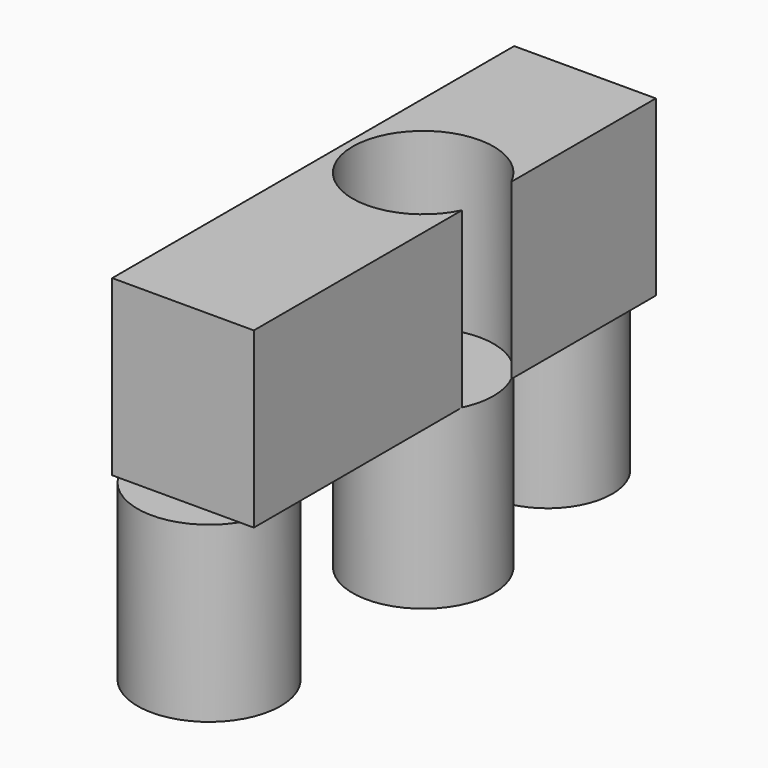
from build123d import *

# Parameters (mm, degrees)
F0_R     = 10.318645
F1_DEPTH = 25.4
F2_R     = 9.470336
F3_DEPTH = 25.4
F4_R     = 10.464223
F5_DEPTH = 25.4
F7_DEPTH = 25.4


with BuildPart() as f1:
    # F0 (on Top) → F1 (new body)
    with BuildSketch(Plane.XY):
        with Locations((-38.053539, 0)):
            Circle(F0_R)
    extrude(amount=F1_DEPTH)


with BuildPart() as f3:
    # F2 (on Top) → F3 (new body)
    with BuildSketch(Plane.XY):
        with Locations((-41.956466, 27.599268)):
            Circle(F2_R)
    extrude(amount=F3_DEPTH)


with BuildPart() as f5:
    # F4 (on Top) → F5 (new body)
    with BuildSketch(Plane.XY):
        with Locations((-39.749462, -37.035935)):
            Circle(F4_R)
    extrude(amount=F5_DEPTH)


with BuildPart() as f7:
    # F6 (on face) → F7 (new body)
    with BuildSketch(Plane.XY.offset(25.4)):
        with BuildLine():
            Line((-28.768998, 30.934986), (-49.490601, 30.934986))
            Line((-49.490601, 30.934986), (-49.490601, -42.572353))
            Line((-49.490601, -42.572353), (-28.768998, -42.572353))
            Line((-28.768998, -42.572353), (-28.768998, -4.502413))
            ThreePointArc((-28.768998, -4.502413), (-48.372183, 0), (-28.768998, 4.502413))
            Line((-28.768998, 4.502413), (-28.768998, 30.934986))
        make_face()
    extrude(amount=F7_DEPTH)


solid = Compound([f1.part, f3.part, f5.part, f7.part])
